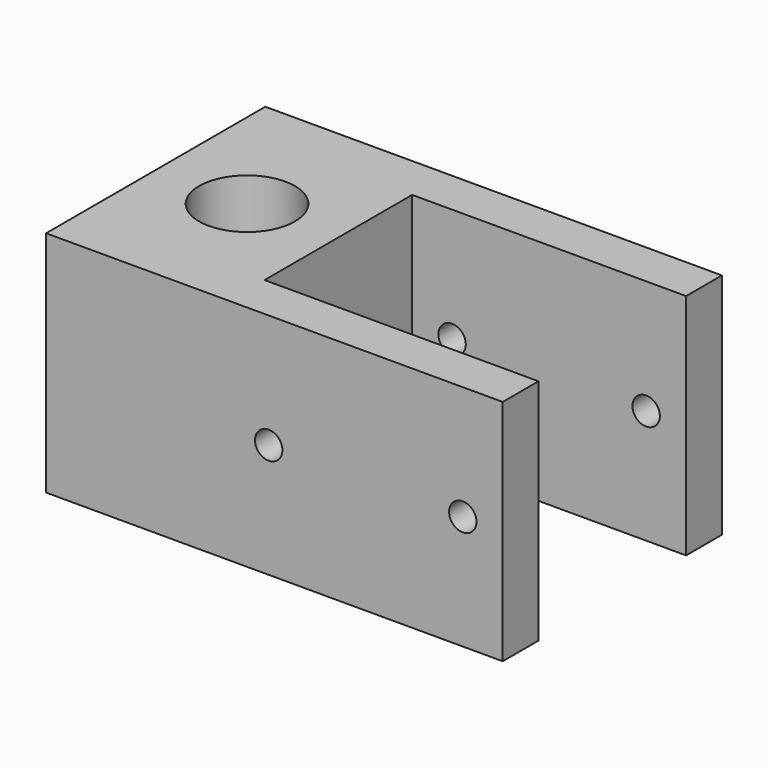
from build123d import *

# Parameters (mm, degrees)
F0_W     = 25.4
F0_H     = 38.1
F1_DEPTH = 31.75
F2_W     = 6.223
F2_H     = 31.75
F3_DEPTH = 38.1
F4_R     = 6.6675
F5_DEPTH = 31.751
F6_R     = 1.905
F7_DEPTH = 38.101


with BuildPart() as f1:
    # F0 (on Top) → F1 (new body)
    with BuildSketch(Plane.XY):
        Rectangle(F0_W, F0_H)
    extrude(amount=F1_DEPTH)

    # F2 (on face) → F3 (join)
    with BuildSketch(Plane.YZ.offset(12.7)):
        with Locations((-15.9385, 15.875)):
            Rectangle(F2_W, F2_H)
        with Locations((15.9385, 15.875)):
            Rectangle(F2_W, F2_H)
    extrude(amount=F3_DEPTH)

    # F4 (on face) → F5 (cut, through all)
    with BuildSketch(Plane.XY.offset(31.75)):
        Circle(F4_R)
    extrude(amount=-F5_DEPTH, mode=Mode.SUBTRACT)

    # F6 (on face) → F7 (cut, through all)
    with BuildSketch(Plane(origin=(0, 19.05, 0), x_dir=(-1, 0, 0), z_dir=(0, 1, 0))):
        with Locations((-45.24375, 15.875)):
            Circle(F6_R)
        with Locations((-18.25625, 15.875)):
            Circle(F6_R)
    extrude(amount=-F7_DEPTH, mode=Mode.SUBTRACT)


solid = f1.part
